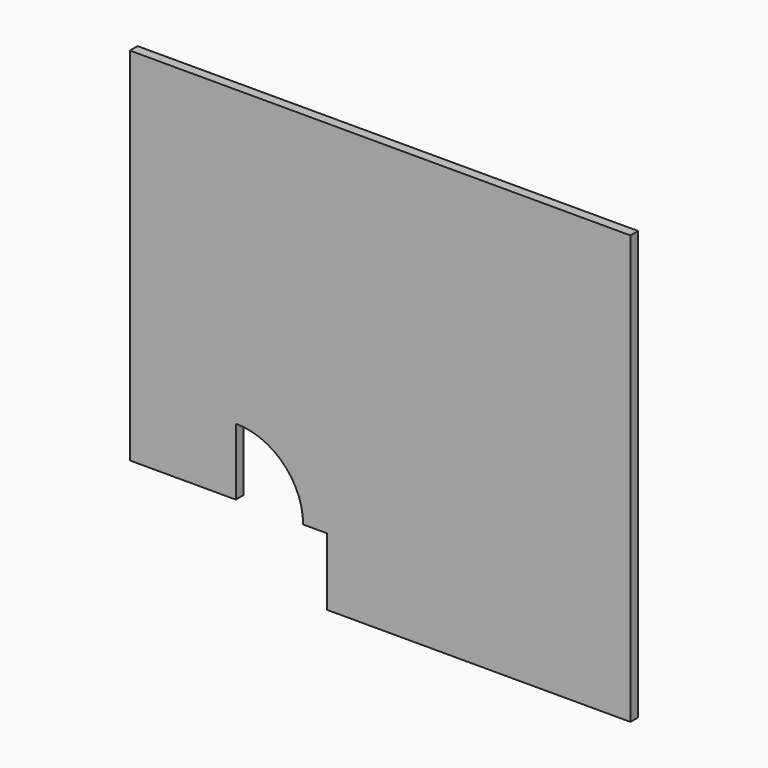
from build123d import *

# Parameters (mm, degrees)
F1_DEPTH = 100


with BuildPart() as f1:
    # F0 (on Front) → F1 (new body)
    with BuildSketch(Plane.XZ):
        with BuildLine():
            Line((0, 3750), (0, 0))
            Line((0, 0), (1100, 0))
            Line((1100, 0), (1100, 695.340855))
            ThreePointArc((1100, 695.340855), (1593.334745, 491.96559), (1800, 0))
            Line((1800, 0), (2050, 0))
            Line((2050, 0), (2050, -700))
            Line((2050, -700), (5200, -700))
            Line((5200, -700), (5200, 3750))
            Line((5200, 3750), (0, 3750))
        make_face()
    extrude(amount=F1_DEPTH)


solid = f1.part
